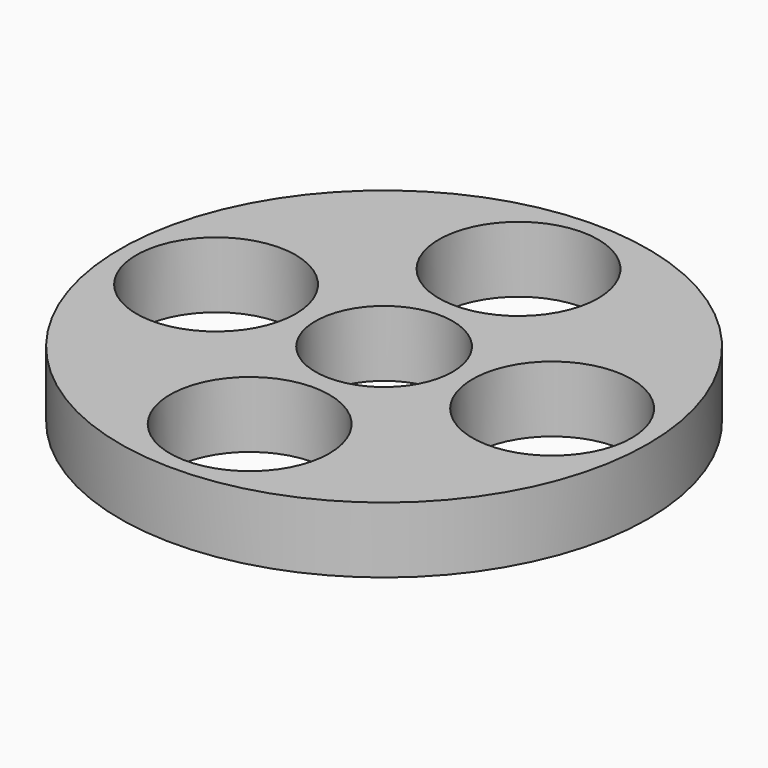
from build123d import *

# Parameters (mm, degrees)
F0_R     = 12.7
F1_DEPTH = 3.175
F2_R     = 3.302
F3_DEPTH = 25.4
F4_R     = 3.831574
F5_DEPTH = 25.4


with BuildPart() as f1:
    # F0 (on Top) → F1 (new body)
    with BuildSketch(Plane.XY):
        Circle(F0_R)
    extrude(amount=F1_DEPTH)

    # F2 (on Top) → F3 (cut)
    with BuildSketch(Plane.XY):
        Circle(F2_R)
    extrude(amount=F3_DEPTH, mode=Mode.SUBTRACT)

    # F4 (on Top) → F5 (cut)
    with BuildSketch(Plane.XY):
        with Locations((0, 8.084333)):
            Circle(F4_R)
        with Locations((-8.084333, 0)):
            Circle(F4_R)
        with Locations((0, -8.084333)):
            Circle(F4_R)
        with Locations((8.084333, 0)):
            Circle(F4_R)
    extrude(amount=F5_DEPTH, mode=Mode.SUBTRACT)


solid = f1.part
